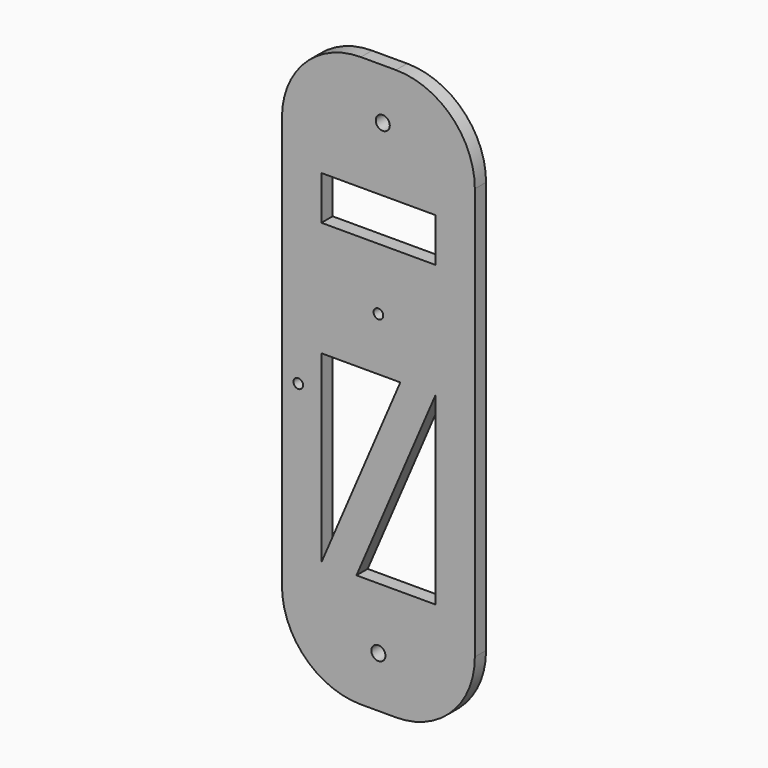
from build123d import *

# Parameters (mm, degrees)
F0_R     = 1.1
F0_R_2   = 1.6
F0_W     = 26
F0_H     = 10
F1_DEPTH = 3.2


with BuildPart() as f1:
    # F0 (on Front) → F1 (new body)
    with BuildSketch(Plane.XZ):
        with BuildLine():
            ThreePointArc((-22, 18), (-16.727922, 5.272078), (-4, 0))
            Line((-4, 0), (4, 0))
            ThreePointArc((4, 0), (16.727922, 5.272078), (22, 18))
            Line((22, 18), (22, 112))
            ThreePointArc((22, 112), (16.727922, 124.727922), (4, 130))
            Line((4, 130), (-4, 130))
            ThreePointArc((-4, 130), (-16.727922, 124.727922), (-22, 112))
            Line((-22, 112), (-22, 18))
        make_face()
        with Locations((-18.274542, 59.802648)):
            Circle(F0_R, mode=Mode.SUBTRACT)
        with Locations((0, 11.6)):
            Circle(F0_R_2, mode=Mode.SUBTRACT)
        Polygon((-5, 25.6), (-13, 25.6), (-13, 67.6), (5, 67.6), (13, 67.6), (13, 25.6), align=None, mode=Mode.SUBTRACT)
        with Locations((0, 79.730161)):
            Circle(F0_R, mode=Mode.SUBTRACT)
        with Locations((0, 98.8)):
            Rectangle(F0_W, F0_H, mode=Mode.SUBTRACT)
        with Locations((1, 118.4)):
            Circle(F0_R_2, mode=Mode.SUBTRACT)
        Polygon((5, 67.6), (-13, 25.6), (-5, 25.6), (13, 67.6), align=None)
    extrude(amount=F1_DEPTH)


solid = f1.part
